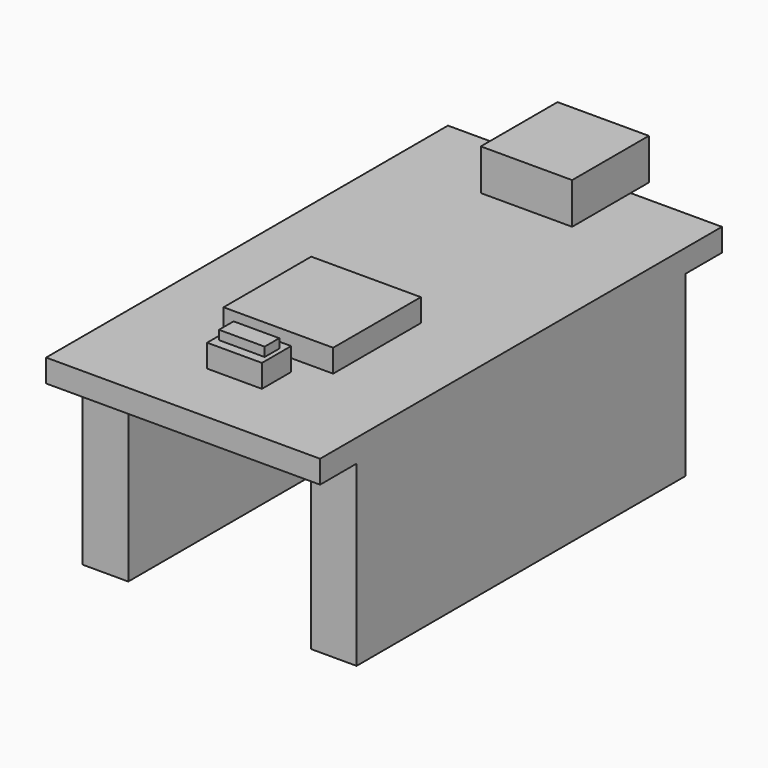
from build123d import *

# Parameters (mm, degrees)
F0_W     = 5.715
F0_H     = 1.5875
F0_W_2   = 3.7885198835
F1_DEPTH = 1.5875
F0_W_3   = 6.35
F0_H_2   = 3.175
F0_H_3   = 1.905
F2_DEPTH = 4.445
F3_DEPTH = 4.445
F4_DEPTH = 1.5875
F5_DEPTH = 1.5875
F6_DEPTH = 12.3825
F7_DEPTH = 3.175
F8_DEPTH = 3.81
F0_W_4   = 7.62
F0_H_4   = 7.62
F9_DEPTH = 3.175


with BuildPart() as f1:
    # F0 (on Top) → F1 (new body)
    with BuildSketch(Plane.XY):
        Polygon((-9.525, -17.4625), (-3.81, -17.4625), (-3.81, -14.2875), (-6.35, -14.2875), (-9.525, -14.2875), align=None)
        Polygon((3.8314801165, -14.2875), (6.35, -14.2875), (6.35, 6.7148534581), (-6.35, 6.7148534581), (-6.35, -14.2875), (-3.81, -14.2875), (-3.7885198835, -14.2875), (-3.7885198835, -9.2075), (-3.7885198835, -1.5875), (3.8314801165, -1.5875), (3.8314801165, -9.2075), align=None)
        Polygon((-9.525, 17.4625), (-9.525, 14.2875), (-6.35, 14.2875), (-3.175, 14.2875), (-3.175, 17.4625), align=None)
        Polygon((6.35, 14.2875), (9.525, 14.2875), (9.525, 17.4625), (3.175, 17.4625), (3.175, 14.2875), align=None)
        with Locations((6.6675, -16.66875)):
            Rectangle(F0_W, F0_H)
        with Locations((1.9157400582, -16.66875)):
            Rectangle(F0_W_2, F0_H)
        Polygon((3.81, -15.875), (9.525, -15.875), (9.525, -14.2875), (6.35, -14.2875), (3.8314801165, -14.2875), (3.81, -14.2875), align=None)
        Polygon((-3.81, -17.4625), (0.0214801165, -17.4625), (0.0214801165, -15.875), (0.0214801165, -14.2875), (-3.7885198835, -14.2875), (-3.81, -14.2875), align=None)
        with Locations((1.9157400582, -15.08125)):
            Rectangle(F0_W_2, F0_H)
        Polygon((0.0214801165, -14.2875), (3.81, -14.2875), (3.8314801165, -14.2875), (3.8314801165, -9.2075), (-3.7885198835, -9.2075), (-3.7885198835, -14.2875), align=None)
        Polygon((1.9264801165, -13.0175), (0.0214801165, -13.0175), (-1.8835198835, -13.0175), (-1.8835198835, -10.4775), (1.9264801165, -10.4775), align=None, mode=Mode.SUBTRACT)
        Polygon((6.35, 6.7148534581), (6.35, 14.2875), (3.175, 14.2875), (3.175, 12.3825), (-3.175, 12.3825), (-3.175, 14.2875), (-6.35, 14.2875), (-6.35, 6.7148534581), align=None)
    extrude(amount=F1_DEPTH)

    # F0 (on Top) → F2 (join)
    with BuildSketch(Plane.XY):
        with Locations((0, 15.875)):
            Rectangle(F0_W_3, F0_H_2)
        with Locations((0, 13.335)):
            Rectangle(F0_W_3, F0_H_3)
    extrude(amount=F2_DEPTH)

    # F0 (on Top) → F3 (join)
    with BuildSketch(Plane.XY):
        with Locations((0, 18.25625)):
            Rectangle(F0_W_3, F0_H)
    extrude(amount=F3_DEPTH)

    # F0 (on Top) → F4 (cut)
    with BuildSketch(Plane.XY):
        with Locations((0, 18.25625)):
            Rectangle(F0_W_3, F0_H)
    extrude(amount=F4_DEPTH, mode=Mode.SUBTRACT)

    # F0 (on Top) → F5 (join)
    with BuildSketch(Plane.XY):
        Polygon((-9.525, 14.2875), (-9.525, -14.2875), (-6.35, -14.2875), (-6.35, 6.7148534581), (-6.35, 14.2875), align=None)
        Polygon((6.35, -14.2875), (9.525, -14.2875), (9.525, 14.2875), (6.35, 14.2875), (6.35, 6.7148534581), align=None)
    extrude(amount=F5_DEPTH)

    # F0 (on Top) → F6 (join)
    with BuildSketch(Plane.XY):
        Polygon((6.35, -14.2875), (9.525, -14.2875), (9.525, 14.2875), (6.35, 14.2875), (6.35, 6.7148534581), align=None)
        Polygon((-9.525, 14.2875), (-9.525, -14.2875), (-6.35, -14.2875), (-6.35, 6.7148534581), (-6.35, 14.2875), align=None)
    extrude(amount=-F6_DEPTH)

    # F0 (on Top) → F7 (join)
    with BuildSketch(Plane.XY):
        Polygon((-1.8835198835, -13.0175), (0.0214801165, -13.0175), (1.9264801165, -13.0175), (1.9264801165, -10.4775), (-1.8835198835, -10.4775), align=None)
        Polygon((1.6089801165, -12.3825), (0.0214801165, -12.3825), (-1.5660198835, -12.3825), (-1.5660198835, -11.1125), (1.6089801165, -11.1125), align=None, mode=Mode.SUBTRACT)
    extrude(amount=F7_DEPTH)

    # F0 (on Top) → F8 (join)
    with BuildSketch(Plane.XY):
        Polygon((-1.5660198835, -12.3825), (0.0214801165, -12.3825), (1.6089801165, -12.3825), (1.6089801165, -11.1125), (-1.5660198835, -11.1125), align=None)
    extrude(amount=F8_DEPTH)

    # F0 (on Top) → F9 (join)
    with BuildSketch(Plane.XY):
        with Locations((0.0214801165, -5.3975)):
            Rectangle(F0_W_4, F0_H_4)
    extrude(amount=F9_DEPTH)


solid = f1.part
